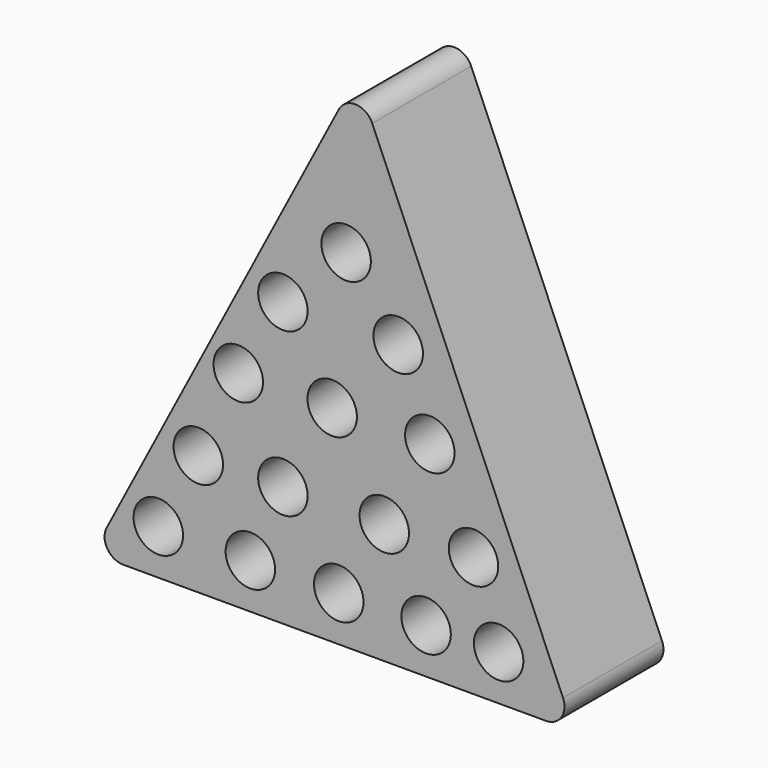
from build123d import *

# Parameters (mm, degrees)
F1_DEPTH = 25.4
F2_R     = 5.08
F3_DEPTH = 22.86


with BuildPart() as f1:
    # F0 (on Front) → F1 (new body)
    with BuildSketch(Plane.XZ):
        with BuildLine():
            ThreePointArc((3.163813, 68.164682), (-0.191852, 70.466917), (-3.712345, 68.425619))
            Line((-3.712345, 68.425619), (-51.374926, -22.691637))
            ThreePointArc((-51.374926, -22.691637), (-51.258083, -26.430894), (-47.998911, -28.267599))
            Line((-47.998911, -28.267599), (38.843141, -28.267599))
            ThreePointArc((38.843141, -28.267599), (42.025141, -26.553065), (42.343284, -22.952574))
            Line((42.343284, -22.952574), (3.163813, 68.164682))
        make_face()
    extrude(amount=F1_DEPTH)

    # F2 (on face) → F3 (cut)
    with BuildSketch(Plane.XZ.offset(25.4)):
        with Locations((-24.346719, 14.035167)):
            Circle(F2_R)
        with Locations((-15.180895, 29.884405)):
            Circle(F2_R)
        with Locations((-2.195979, 43.060273)):
            Circle(F2_R)
        with Locations((-3.712345, -18.999988)):
            Circle(F2_R)
        with Locations((14.226123, -18.999988)):
            Circle(F2_R)
        with Locations((29.120583, -18.999988)):
            Circle(F2_R)
        with Locations((-21.864308, -18.999988)):
            Circle(F2_R)
        with Locations((-40.768821, -18.999988)):
            Circle(F2_R)
        with Locations((-32.557767, -3.532661)):
            Circle(F2_R)
        with Locations((-15.180895, -3.532661)):
            Circle(F2_R)
        with Locations((5.633163, -3.532661)):
            Circle(F2_R)
        with Locations((23.964809, -3.532661)):
            Circle(F2_R)
        with Locations((14.989941, 14.035167)):
            Circle(F2_R)
        with Locations((-5.060299, 14.035167)):
            Circle(F2_R)
        with Locations((8.497481, 29.884405)):
            Circle(F2_R)
    extrude(amount=-F3_DEPTH, mode=Mode.SUBTRACT)


solid = f1.part
